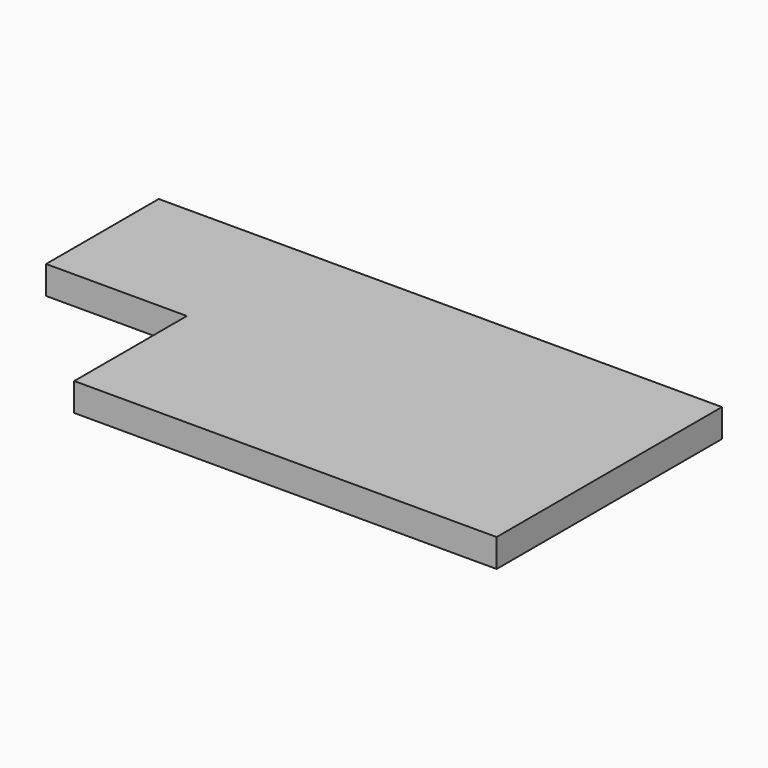
from build123d import *

# Parameters (mm, degrees)
BOX001_W     = 100
BOX001_H     = 100
BOX001_DEPTH = 10
BOX_W        = 200
BOX_H        = 100
BOX_DEPTH    = 10


with BuildPart() as cube001:
    # Box001 → Box001 (new body)
    with BuildSketch(Plane(origin=(-50, -50, 0), x_dir=(1, 0, 0), z_dir=(0, 0, 1))):
        with Locations((50, 50)):
            Rectangle(BOX001_W, BOX001_H)
    extrude(amount=BOX001_DEPTH)


with BuildPart() as cut:
    # Box → Box (new body)
    with BuildSketch(Plane.XY):
        with Locations((100, 50)):
            Rectangle(BOX_W, BOX_H)
    extrude(amount=BOX_DEPTH)

    # Cut: cut Cube001
    add(cube001.part, mode=Mode.SUBTRACT)


solid = cut.part
